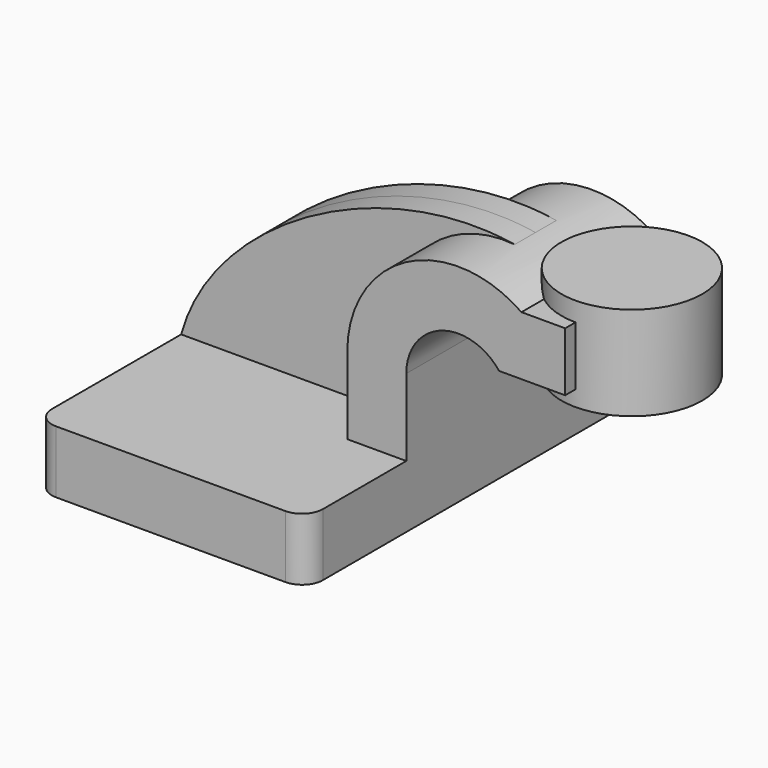
from build123d import *

# Parameters (mm, degrees)
F1_DEPTH = 63.5
F2_DEPTH = 25.4
F3_DEPTH = 7.9375
F5_R     = 6.35


with BuildPart() as f1:
    # F0 (on Front) → F1 (new body, symmetric)
    with BuildSketch(Plane.XZ):
        Polygon((-41.275, 9.525), (-41.275, -9.525), (41.275, -9.525), (41.275, 9.525), (23.3043469489, 9.525), align=None)
    extrude(amount=F1_DEPTH, both=True)

    # F0 (on Front) → F2 (join, symmetric)
    with BuildSketch(Plane.XZ):
        with BuildLine():
            Line((23.3043469489, 9.525), (41.275, 9.525))
            Line((41.275, 9.525), (41.275, 32.9785965501))
            ThreePointArc((41.275, 32.9785965501), (47.109768429, 45.2753186743), (60.325, 48.5328564168))
            Line((60.325, 48.5328564168), (60.325, 66.675))
            ThreePointArc((60.325, 66.675), (34.3676792005, 58.0084605019), (23.3043469489, 32.9785965501))
            Line((23.3043469489, 32.9785965501), (23.3043469489, 9.525))
        make_face()
        with BuildLine():
            ThreePointArc((76.3579214275, 60.8458530511), (68.7147538428, 64.787159847), (60.325, 66.675))
            Line((60.325, 66.675), (60.325, 48.5328564168))
            ThreePointArc((60.325, 48.5328564168), (65.4413001724, 46.5163203784), (69.5626091196, 42.8752))
            Line((69.5626091196, 42.8752), (89.6713504766, 42.8752))
            Line((89.6713504766, 42.8752), (89.6713504766, 60.8458530511))
            Line((89.6713504766, 60.8458530511), (76.3579214275, 60.8458530511))
        make_face()
    extrude(amount=F2_DEPTH, both=True)

    # F0 (on Front) → F3 (join, symmetric)
    with BuildSketch(Plane.XZ):
        with BuildLine():
            add(Edge.make_bspline(
                [(-41.275, 9.525), (-31.5447561443, 45.2147647738), (19.8492854834, 73.3103826642), (60.325, 66.675)],
                knots=[0, 0, 0, 0, 116.5705044169, 116.5705044169, 116.5705044169, 116.5705044169], degree=3))
            Line((-41.275, 9.525), (23.3043469489, 9.525))
            Line((23.3043469489, 9.525), (23.3043469489, 32.9785965501))
            ThreePointArc((23.3043469489, 32.9785965501), (34.3676792005, 58.0084605019), (60.325, 66.675))
        make_face()
    extrude(amount=F3_DEPTH, both=True)

    # F0 (on Front) → F4 (revolve)
    with BuildSketch(Plane.XZ):
        Polygon((111.125, 66.675), (89.6713504766, 66.675), (89.6713504766, 60.8458530511), (89.6713504766, 42.8752), (89.6713504766, 38.1), (111.125, 38.1), align=None)
    revolve(axis=Axis((89.6713504766, 0, 52.3875), (0, 0, 1)))

    # F5
    f5_edges = [f1.edges().sort_by_distance(p)[0] for p in [
        (-41.275, -63.5, 0),
        (41.275, -63.5, 0),
        (-41.275, 63.5, 0),
        (41.275, 63.5, 0),
    ]]
    fillet(f5_edges, radius=F5_R)


solid = f1.part
